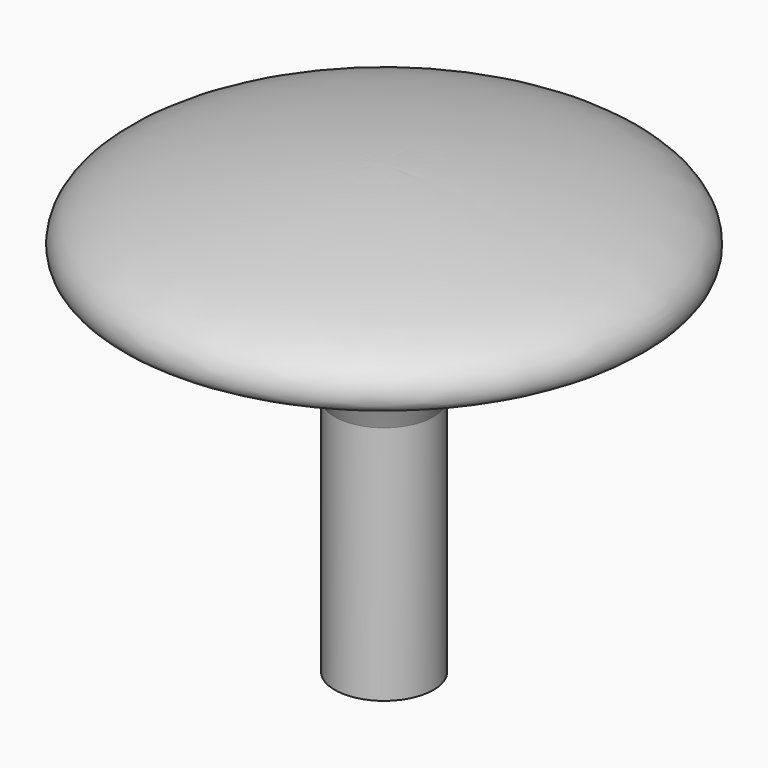
from build123d import *

# Parameters (mm, degrees)
F0_W     = 1.35
F0_H     = 2.1
F3_DEPTH = 12


with BuildPart() as f2:
    # F1 (on Front) → F2 (revolve)
    with BuildSketch(Plane.XZ):
        Polygon((0, 13.5), (0, 0), (1.95, 0), (1.95, 9.5), (1.95, 13.5), align=None)
        with BuildLine():
            Line((0, 17.6711902022), (0, 13.5))
            Line((0, 13.5), (1.95, 13.5))
            add(Edge.make_bspline(
                [(5.8217617042, 13.7385702927), (4.4533175445, 13.6483472137), (3.0242982607, 13.5794216397), (1.95, 13.5)],
                knots=[0.8620614525, 0.8620614525, 0.8620614525, 0.8620614525, 1, 1, 1, 1], degree=3))
            add(Edge.make_bspline(
                [(0, 17.6711902022), (1.9950785153, 17.6819703772), (6.3140188963, 17.2265973022), (10.2283070111, 16.061224357), (10.5473517626, 14.693865039), (9.9669092997, 14.0705644475), (7.4690655971, 13.8471789109), (5.8217617042, 13.7385702927)],
                knots=[0, 0, 0, 0, 0.2782163846, 0.4894055549, 0.5961083439, 0.696013971, 0.8620614525, 0.8620614525, 0.8620614525, 0.8620614525], degree=3))
        make_face()
        with BuildLine():
            Line((1.95, 13.5), (1.95, 9.5))
            add(Edge.make_bspline(
                [(1.95, 9.5), (2.2792329689, 10.4879698392), (3.127118021, 12.5318287812), (4.2847728481, 13.3568612919), (5.8217617042, 13.7385702927)],
                knots=[0, 0, 0, 0, 0.4988307951, 1, 1, 1, 1], degree=3))
            add(Edge.make_bspline(
                [(5.8217617042, 13.7385702927), (4.4533175445, 13.6483472137), (3.0242982607, 13.5794216397), (1.95, 13.5)],
                knots=[0.8620614525, 0.8620614525, 0.8620614525, 0.8620614525, 1, 1, 1, 1], degree=3))
        make_face()
    revolve(axis=Axis((0, 0, 6.75), (0, 0, 1)))

    # F0 (on Top) → F3 (cut)
    with BuildSketch(Plane.XY):
        Rectangle(F0_W, F0_H)
    extrude(amount=F3_DEPTH, mode=Mode.SUBTRACT)


solid = f2.part
